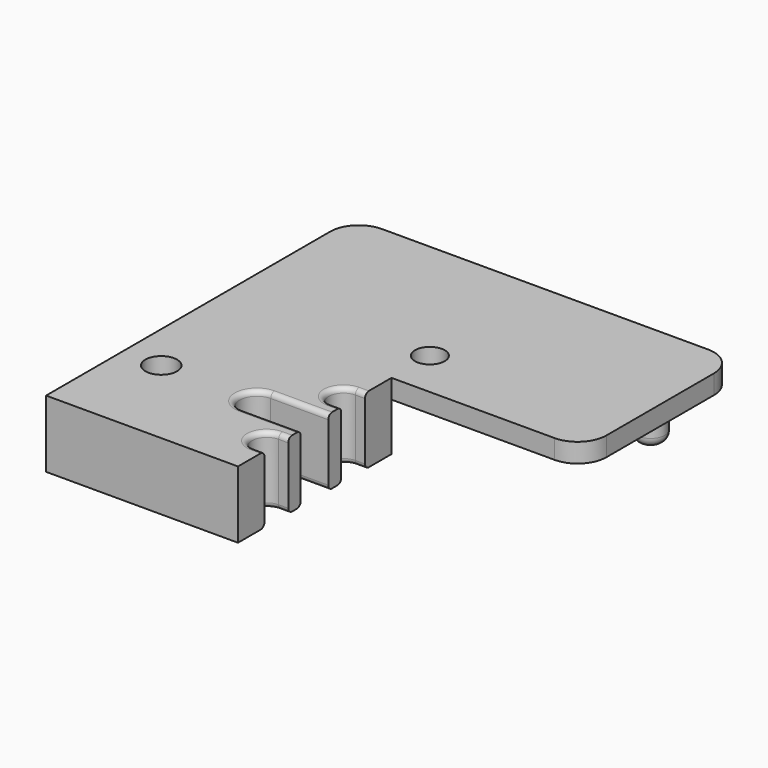
from build123d import *

# Parameters (mm, degrees)
SKETCH_R     = 1.65
PAD_DEPTH    = 7
SKETCH001_W  = 40
SKETCH001_H  = 2
PAD001_DEPTH = 20
FILLET_R     = 3
FILLET001_R  = 10
SKETCH002_R  = 1.55
POCKET_DEPTH = 5
SKETCH003_R  = 1.5
PAD002_DEPTH = 5
FILLET002_R  = 1
FILLET003_R  = 1
FILLET004_R  = 0.5


with BuildPart() as part:
    # Sketch → Pad (new body)
    with BuildSketch(Plane.XY):
        with BuildLine():
            Line((0, 0), (20, 0))
            Line((20, 0), (20, 3.45))
            Line((18.999985, 3.45), (20, 3.45))
            ThreePointArc((18.999985, 6.55), (17.45, 5), (18.999985, 3.45))
            Line((18.999985, 6.55), (20, 6.55))
            Line((20, 6.55), (20, 8.164485))
            Line((14, 8.164485), (20, 8.164485))
            ThreePointArc((14, 11.764485), (12.2, 9.964485), (14, 8.164485))
            Line((14, 11.764485), (20, 11.764485))
            Line((20, 11.764485), (20, 13.45))
            Line((19, 13.45), (20, 13.45))
            ThreePointArc((19, 16.55), (17.45, 15), (19, 13.45))
            Line((19, 16.55), (20, 16.55))
            Line((20, 16.55), (20, 20))
            Line((20, 20), (0, 20))
            Line((0, 20), (0, 0))
        make_face()
        with Locations((4, 10)):
            Circle(SKETCH_R, mode=Mode.SUBTRACT)
    extrude(amount=PAD_DEPTH)

    # Sketch001 → Pad001 (new body)
    with BuildSketch(Plane(origin=(0, 20, 0), x_dir=(-1, 0, 0), z_dir=(0, 1, 0))):
        with Locations((-20, 6)):
            Rectangle(SKETCH001_W, SKETCH001_H)
    extrude(amount=PAD001_DEPTH)

    # Fillet
    fillet_edges = [part.edges().sort_by_distance(p)[0] for p in [
        (40, 20, 6),
        (40, 40, 6),
        (0, 40, 6),
    ]]
    fillet(fillet_edges, radius=FILLET_R)

    # Fillet001
    fillet001_edges = [part.edges().sort_by_distance(p)[0] for p in [
        (0, 20, 2.5),
    ]]
    fillet(fillet001_edges, radius=FILLET001_R)

    # Sketch002 → Pocket (cut)
    with BuildSketch(Plane.XY.offset(7)):
        with Locations((20, 25)):
            Circle(SKETCH002_R)
    extrude(amount=-POCKET_DEPTH, mode=Mode.SUBTRACT)

    # Sketch003 → Pad002 (new body)
    with BuildSketch(Plane(origin=(0, 0, 5), x_dir=(1, 0, 0), z_dir=(0, 0, -1))):
        with Locations((35, -35)):
            Circle(SKETCH003_R)
    extrude(amount=PAD002_DEPTH)

    # Fillet002
    fillet002_edges = [part.edges().sort_by_distance(p)[0] for p in [
        (33.5, 35, 0),
    ]]
    fillet(fillet002_edges, radius=FILLET002_R)

    # Fillet003
    fillet003_edges = [part.edges().sort_by_distance(p)[0] for p in [
        (2.35, 10, 0),
    ]]
    fillet(fillet003_edges, radius=FILLET003_R)

    # Fillet004
    fillet004_edges = [part.edges().sort_by_distance(p)[0] for p in [
        (17.45, 5, 0),
        (19.499993, 3.45, 0),
        (19.499993, 6.55, 0),
        (17, 8.164485, 0),
        (12.2, 9.964485, 0),
        (17, 11.764485, 0),
        (19.5, 13.45, 0),
        (17.45, 15, 0),
        (19.5, 16.55, 0),
        (19.5, 16.55, 7),
        (17.45, 15, 7),
        (19.5, 13.45, 7),
        (17, 11.764485, 7),
        (12.2, 9.964485, 7),
        (17, 8.164485, 7),
        (19.499993, 6.55, 7),
        (17.45, 5, 7),
        (19.499993, 3.45, 7),
    ]]
    fillet(fillet004_edges, radius=FILLET004_R)


solid = part.part
